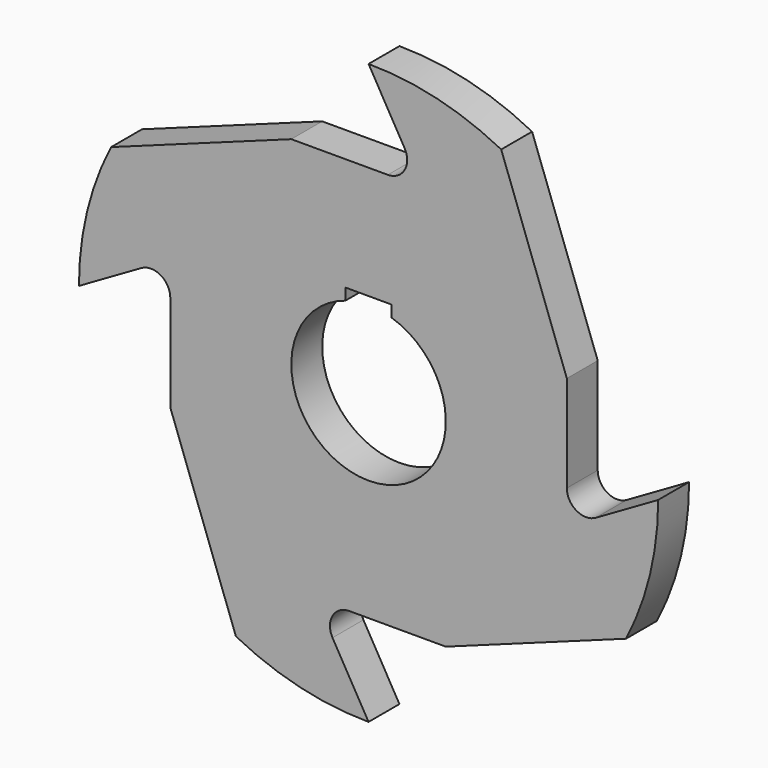
from build123d import *

# Parameters (mm, degrees)
F1_DEPTH = 10


with BuildPart() as f1:
    # F0 (on Front) → F1 (new body)
    with BuildSketch(Plane.XZ):
        with BuildLine():
            Line((-20, 51.339746), (-66.669677, 34.353373))
            ThreePointArc((-66.669677, 34.353373), (-72.887673, 17.674477), (-75, 0))
            Line((-75, 0), (-58.839746, 9.330127))
            ThreePointArc((-58.839746, 9.330127), (-53.839746, 9.330127), (-51.339746, 5))
            Line((-51.339746, 5), (-51.339746, -20))
            Line((-51.339746, -20), (-34.353373, -66.669677))
            ThreePointArc((-34.353373, -66.669677), (-17.674477, -72.887673), (0, -75))
            Line((0, -75), (-9.330127, -58.839746))
            ThreePointArc((-9.330127, -58.839746), (-9.330127, -53.839746), (-5, -51.339746))
            Line((-5, -51.339746), (20, -51.339746))
            Line((20, -51.339746), (66.669677, -34.353373))
            ThreePointArc((66.669677, -34.353373), (72.887673, -17.674477), (75, 0))
            Line((75, 0), (58.839746, -9.330127))
            ThreePointArc((58.839746, -9.330127), (53.839746, -9.330127), (51.339746, -5))
            Line((51.339746, -5), (51.339746, 20))
            Line((51.339746, 20), (34.353373, 66.669677))
            ThreePointArc((34.353373, 66.669677), (17.674477, 72.887673), (0, 75))
            Line((0, 75), (9.330127, 58.839746))
            ThreePointArc((9.330127, 58.839746), (9.330127, 53.839746), (5, 51.339746))
            Line((5, 51.339746), (0, 51.339746))
            Line((0, 51.339746), (-20, 51.339746))
        make_face()
        with BuildLine():
            Line((-6, 22.078784), (0, 22.078784))
            Line((0, 22.078784), (6, 22.078784))
            Line((6, 22.078784), (6, 19.078784))
            ThreePointArc((6, 19.078784), (0, -20), (-6, 19.078784))
            Line((-6, 19.078784), (-6, 22.078784))
        make_face(mode=Mode.SUBTRACT)
    extrude(amount=F1_DEPTH)


solid = f1.part
